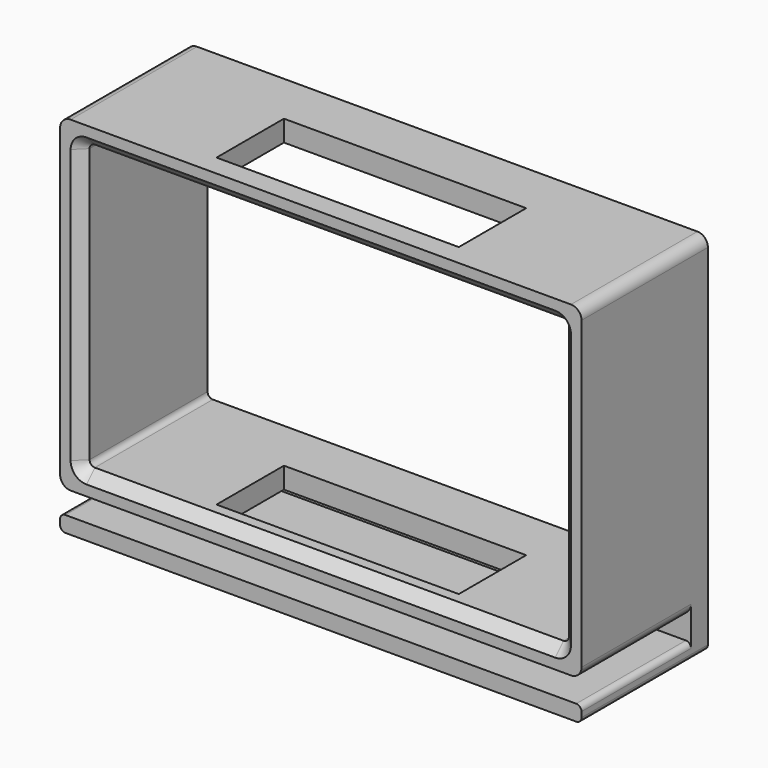
from build123d import *

# Parameters (mm, degrees)
F0_W     = 49.5
F0_H     = 31
F0_W_2   = 45.5
F0_H_2   = 27
F1_DEPTH = 15
F2_W     = 23
F2_H     = 8
F3_DEPTH = 31.001
F4_R     = 1
F5_R     = 0.5
F6_W     = 49.5
F6_H     = 1.5
F7_DEPTH = 15
F8_W     = 49.5
F8_H     = 5.7
F9_DEPTH = 2
F10_R    = 0.5
F11_SIZE = 1


with BuildPart() as f1:
    # F0 (on Front) → F1 (new body)
    with BuildSketch(Plane.XZ):
        Rectangle(F0_W, F0_H)
        Rectangle(F0_W_2, F0_H_2, mode=Mode.SUBTRACT)
    extrude(amount=F1_DEPTH)

    # F2 (on face) → F3 (cut, through all)
    with BuildSketch(Plane.XY.offset(15.5)):
        with Locations((0, -9)):
            Rectangle(F2_W, F2_H)
    extrude(amount=-F3_DEPTH, mode=Mode.SUBTRACT)

    # F4
    f4_edges = [f1.edges().sort_by_distance(p)[0] for p in [
        (24.75, -7.5, 15.5),
        (24.75, -7.5, -15.5),
        (-24.75, -7.5, 15.5),
        (-24.75, -7.5, -15.5),
    ]]
    fillet(f4_edges, radius=F4_R)

    # F5
    f5_edges = [f1.edges().sort_by_distance(p)[0] for p in [
        (-22.75, -7.5, 13.5),
        (22.75, -7.5, 13.5),
        (22.75, -7.5, -13.5),
        (-22.75, -7.5, -13.5),
    ]]
    fillet(f5_edges, radius=F5_R)



with BuildPart() as f7:
    # F6 (on Front) → F7 (new body, through all)
    with BuildSketch(Plane.XZ):
        with Locations((0, -18.45)):
            Rectangle(F6_W, F6_H)
    extrude(amount=F7_DEPTH)


with BuildPart() as f1_1:
    add(f1.part)

    add(f7.part)  # F9 merges F7
    # F8 (on Front) → F9 (join)
    with BuildSketch(Plane.XZ):
        with Locations((0, -16.35)):
            Rectangle(F8_W, F8_H)
    extrude(amount=F9_DEPTH)

    # F10
    f10_edges = [f1_1.edges().sort_by_distance(p)[0] for p in [
        (24.75, -7.5, -19.2),
        (24.75, -8.5, -17.7),
        (-24.75, -7.5, -19.2),
        (-24.75, -8.5, -17.7),
    ]]
    fillet(f10_edges, radius=F10_R)

    # F11
    f11_edges = [f1_1.edges().sort_by_distance(p)[0] for p in [
        (0, -15, 13.5),
    ]]
    chamfer(f11_edges, length=F11_SIZE)


solid = f1_1.part
